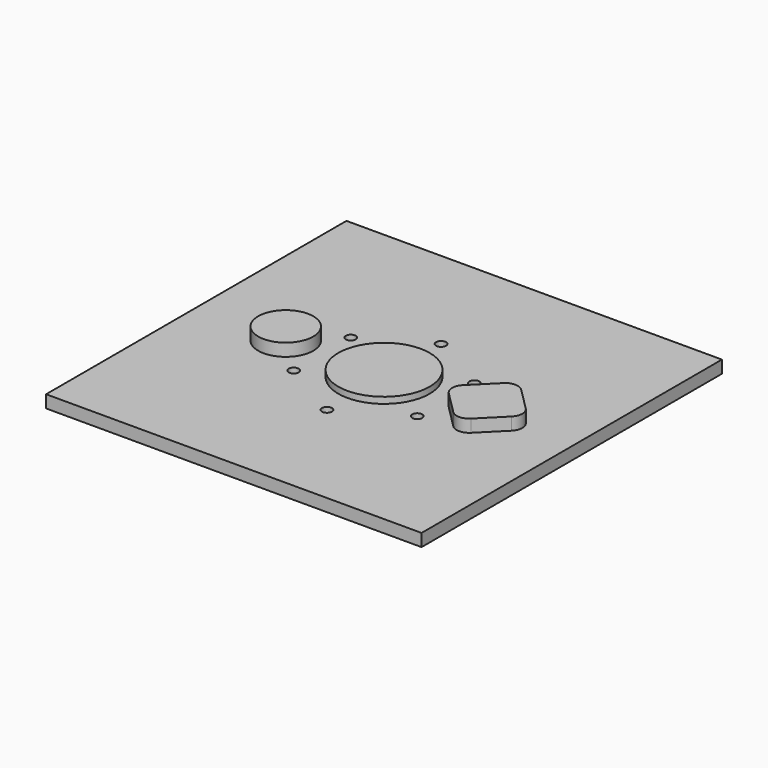
from build123d import *

# Parameters (mm, degrees)
F0_W     = 150
F0_H     = 150
F1_DEPTH = 5
F2_R     = 18.25
F3_DEPTH = 2.5
F4_R     = 11
F5_DEPTH = 5
F6_R     = 2
F7_DEPTH = 5.001


with BuildPart() as f1:
    # F0 (on Top) → F1 (new body)
    with BuildSketch(Plane.XY):
        Rectangle(F0_W, F0_H)
    extrude(amount=-F1_DEPTH)

    # F2 (on face) → F3 (join)
    with BuildSketch(Plane.XY):
        Circle(F2_R)
    extrude(amount=F3_DEPTH)

    # F4 (on face) → F5 (join)
    with BuildSketch(Plane.XY):
        with Locations((-39.25, 0)):
            Circle(F4_R)
        with BuildLine():
            Line((37.714466, 12.535534), (28.714466, 3.535534))
            ThreePointArc((28.714466, 3.535534), (27.25, 0), (28.714466, -3.535534))
            Line((28.714466, -3.535534), (37.714466, -12.535534))
            ThreePointArc((37.714466, -12.535534), (41.25, -14), (44.785534, -12.535534))
            Line((44.785534, -12.535534), (53.785534, -3.535534))
            ThreePointArc((53.785534, -3.535534), (55.25, 0), (53.785534, 3.535534))
            Line((53.785534, 3.535534), (44.785534, 12.535534))
            ThreePointArc((44.785534, 12.535534), (41.25, 14), (37.714466, 12.535534))
        make_face()
    extrude(amount=F5_DEPTH)

    # F6 (on face) → F7 (cut, through all)
    with BuildSketch(Plane.XY):
        with Locations((0, 28.5)):
            Circle(F6_R)
        with Locations((-24.681724, 14.25)):
            Circle(F6_R)
        with Locations((-24.681724, -14.25)):
            Circle(F6_R)
        with Locations((0, -28.5)):
            Circle(F6_R)
        with Locations((24.681724, -14.25)):
            Circle(F6_R)
        with Locations((24.681724, 14.25)):
            Circle(F6_R)
    extrude(amount=-F7_DEPTH, mode=Mode.SUBTRACT)


solid = f1.part
